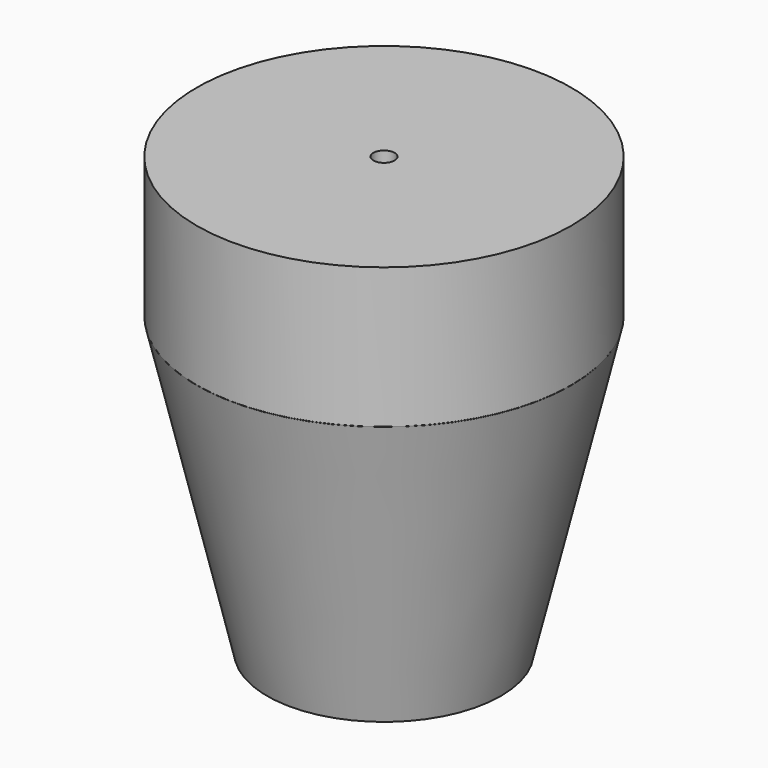
from build123d import *

# Parameters (mm, degrees)
CYLINDER001_R     = 0.17145
CYLINDER001_DEPTH = 7.12
CYLINDER_R        = 3.05
CYLINDER_DEPTH    = 2.286


with BuildPart() as fiber0:
    # Cylinder001 → Cylinder001 (new body)
    with BuildSketch(Plane.XY):
        Circle(CYLINDER001_R)
    extrude(amount=CYLINDER001_DEPTH)


with BuildPart() as cylinder:
    # Cylinder → Cylinder (new body)
    with BuildSketch(Plane.XY.offset(4.83)):
        Circle(CYLINDER_R)
    extrude(amount=CYLINDER_DEPTH)


with BuildPart() as obj1:
    # Cone → Cone (revolve)
    with BuildSketch(Plane.XZ):
        Polygon((0, 0), (1.905, 0), (3.048, 4.826), (0, 4.826), align=None)
    revolve(axis=Axis((0, 0, 0), (0, 0, 1)))

    # Fusion: union Cylinder
    add(cylinder.part)

    # Cut: cut Fiber0
    add(fiber0.part, mode=Mode.SUBTRACT)


solid = obj1.part
